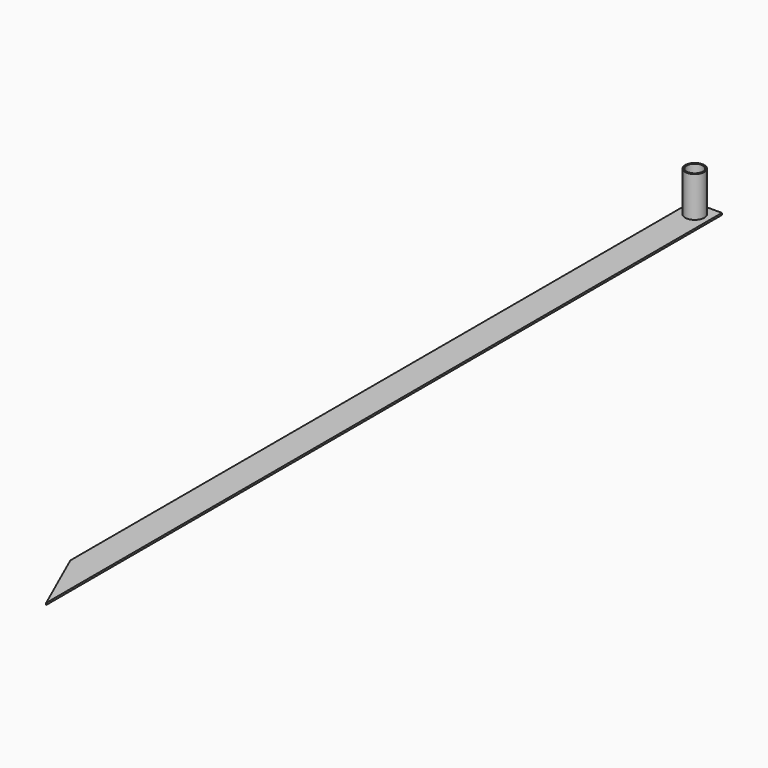
from build123d import *

# Parameters (mm, degrees)
F0_W     = 76.2
F0_H     = 2133.6
F1_DEPTH = 4.7625
F2_R     = 24.13
F2_R_2   = 20.447
F3_DEPTH = 101.6
F5_DEPTH = 35.814


with BuildPart() as f1:
    # F0 (on Top) → F1 (new body)
    with BuildSketch(Plane.XY):
        with Locations((375.958569, -213.009804)):
            Rectangle(F0_W, F0_H)
    extrude(amount=-F1_DEPTH)

    # F2 (on face) → F3 (join)
    with BuildSketch(Plane.XY):
        with Locations((375.958569, 815.690196)):
            Circle(F2_R)
        with Locations((375.958569, 815.690196)):
            Circle(F2_R_2, mode=Mode.SUBTRACT)
    extrude(amount=F3_DEPTH)

    # F4 (on face) → F5 (cut)
    with BuildSketch(Plane(origin=(0, 0, -4.7625), x_dir=(1, 0, 0), z_dir=(0, 0, -1))):
        Polygon((337.858569, 1107.854731), (414.058569, 1279.809804), (337.858569, 1279.809804), align=None)
    extrude(amount=-F5_DEPTH, mode=Mode.SUBTRACT)


solid = f1.part
